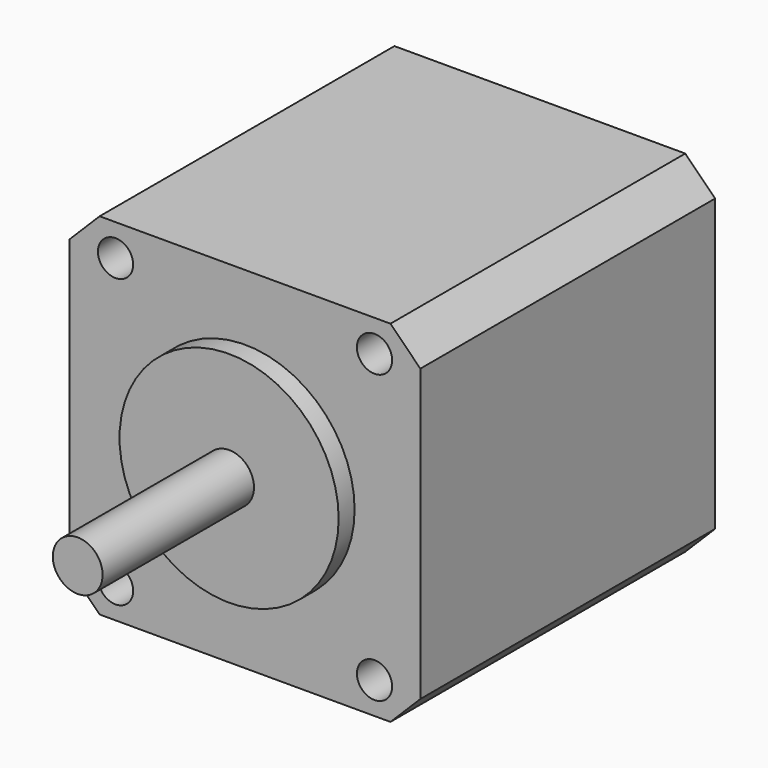
from build123d import *

# Parameters (mm, degrees)
F0_W     = 35.2
F0_H     = 35.200004
F0_R     = 1.767695
F0_R_2   = 11
F0_R_3   = 2.5
F1_DEPTH = 37
F2_DEPTH = 2
F3_DEPTH = 21
F4_SIZE  = 3


with BuildPart() as f1:
    # F0 (on Front) → F1 (new body)
    with BuildSketch(Plane.XZ):
        Rectangle(F0_W, F0_H)
        with Locations((-13, -14.419172)):
            Circle(F0_R, mode=Mode.SUBTRACT)
        with Locations((13, -14.419172)):
            Circle(F0_R, mode=Mode.SUBTRACT)
        with Locations((-13, 14.419172)):
            Circle(F0_R, mode=Mode.SUBTRACT)
        Circle(F0_R_2, mode=Mode.SUBTRACT)
        with Locations((13, 14.419172)):
            Circle(F0_R, mode=Mode.SUBTRACT)
        Circle(F0_R_2)
        Circle(F0_R_3, mode=Mode.SUBTRACT)
        Circle(F0_R_3)
    extrude(amount=-F1_DEPTH)

    # F0 (on Front) → F2 (join)
    with BuildSketch(Plane.XZ):
        Circle(F0_R_2)
        Circle(F0_R_3, mode=Mode.SUBTRACT)
    extrude(amount=F2_DEPTH)

    # F0 (on Front) → F3 (join)
    with BuildSketch(Plane.XZ):
        Circle(F0_R_3)
    extrude(amount=F3_DEPTH)

    # F4
    f4_edges = [f1.edges().sort_by_distance(p)[0] for p in [
        (17.6, 18.5, 17.600002),
        (-17.6, 18.5, 17.600002),
        (17.6, 18.5, -17.600002),
        (-17.6, 18.5, -17.600002),
    ]]
    chamfer(f4_edges, length=F4_SIZE)


solid = f1.part
